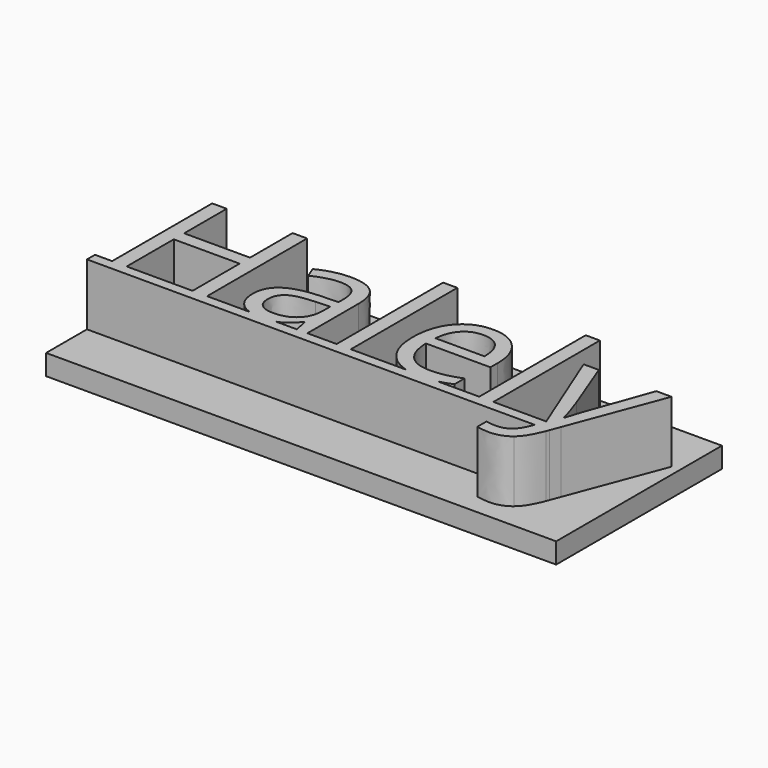
from build123d import *

# Parameters (mm, degrees)
F0_W     = 1.3844430218
F0_H     = 12.9721510883
F1_DEPTH = 8
F2_W     = 49.7238747776
F2_H     = 20.1984127052
F3_DEPTH = 2


with BuildPart() as f1:
    # F0 (on Top) → F1 (new body)
    with BuildSketch(Plane.XY):
        Polygon((1.6752027315, -0.1040332907), (1.6752027315, -12.2919334187), (3.0916559966, -12.2919334187), (3.0916559966, -6.5567648314), (9.5123772941, -6.5567648314), (9.5123772941, -12.2919334187), (10.9288305591, -12.2919334187), (10.9288305591, -0.1040332907), (9.5123772941, -0.1040332907), (9.5123772941, -5.2896927017), (3.0916559966, -5.2896927017), (3.0916559966, -0.1040332907), align=None)
        with BuildLine():
            Line((1.6752027315, -12.2919334187), (0, -12.2919334187))
            Line((0, -12.2919334187), (0, -13.2722109556))
            Line((0, -13.2722109556), (43.6441651164, -13.2722109556))
            Line((43.6441651164, -13.2722109556), (44.0087494665, -12.3426163039))
            Line((44.0087494665, -12.3426163039), (43.9884115608, -12.2919334187))
            Line((43.9884115608, -12.2919334187), (38.8390951771, -12.2919334187))
            Line((38.8390951771, -12.2919334187), (37.4546521554, -12.2919334187))
            Line((37.4546521554, -12.2919334187), (33.4454919166, -12.2919334187))
            add(Edge.make_bspline(
                [(33.4454919166, -12.2919334187), (33.3796802635, -12.3074760692), (33.3146606914, -12.3212761417)],
                knots=[0.9005120931, 0.9005120931, 0.9005120931, 1, 1, 1], degree=2))
            add(Edge.make_bspline(
                [(33.3146606914, -12.3212761417), (32.6611182245, -12.4599871959), (31.7354886897, -12.4599871959)],
                knots=[0, 0, 0, 1, 1, 1], degree=2))
            add(Edge.make_bspline(
                [(31.7354886897, -12.4599871959), (30.9886457429, -12.4599871959), (30.3577707914, -12.2919334187)],
                knots=[0, 0, 0, 0.3688754729, 0.3688754729, 0.3688754729], degree=2))
            Line((30.3577707914, -12.2919334187), (24.941314554, -12.2919334187))
            Line((24.941314554, -12.2919334187), (23.5568715322, -12.2919334187))
            Line((23.5568715322, -12.2919334187), (20.7079598805, -12.2919334187))
            Line((20.7079598805, -12.2919334187), (19.6809645753, -12.2919334187))
            Line((19.6809645753, -12.2919334187), (17.6044525704, -12.2919334187))
            add(Edge.make_bspline(
                [(17.6044525704, -12.2919334187), (17.0357314581, -12.4599871959), (16.2798762271, -12.4599871959)],
                knots=[0.2582329607, 0.2582329607, 0.2582329607, 1, 1, 1], degree=2))
            add(Edge.make_bspline(
                [(16.2798762271, -12.4599871959), (15.6153411474, -12.4599871959), (15.0913833718, -12.2919334187)],
                knots=[0, 0, 0, 0.4894320446, 0.4894320446, 0.4894320446], degree=2))
            Line((15.0913833718, -12.2919334187), (10.9288305591, -12.2919334187))
            Line((10.9288305591, -12.2919334187), (9.5123772941, -12.2919334187))
            Line((9.5123772941, -12.2919334187), (3.0916559966, -12.2919334187))
            Line((3.0916559966, -12.2919334187), (1.6752027315, -12.2919334187))
        make_face()
        with BuildLine():
            add(Edge.make_bspline(
                [(15.0913833718, -12.2919334187), (14.5447987066, -12.1166223119), (14.1511950491, -11.7584293641)],
                knots=[0.4894320446, 0.4894320446, 0.4894320446, 1, 1, 1], degree=2))
            Line((15.0913833718, -12.2919334187), (17.6044525704, -12.2919334187))
            add(Edge.make_bspline(
                [(17.9777528809, -12.1545561246), (17.802442679, -12.2334284944), (17.6044525704, -12.2919334187)],
                knots=[0, 0, 0, 0.2582329607, 0.2582329607, 0.2582329607], degree=2))
            add(Edge.make_bspline(
                [(19.3395219804, -10.9901835254), (18.6566367904, -11.8491250534), (17.9777528809, -12.1545561246)],
                knots=[0, 0, 0, 1, 1, 1], degree=2))
            Line((19.3395219804, -10.9901835254), (19.4062099872, -10.9901835254))
            Line((19.4062099872, -10.9901835254), (19.6809645753, -12.2919334187))
            Line((19.6809645753, -12.2919334187), (20.7079598805, -12.2919334187))
            Line((20.7079598805, -12.2919334187), (20.7079598805, -6.0552710201))
            add(Edge.make_bspline(
                [(19.9197076398, -3.730527102), (20.7079598805, -4.4547588562), (20.7079598805, -6.0552710201)],
                knots=[0, 0, 0, 1, 1, 1], degree=2))
            add(Edge.make_bspline(
                [(17.4989329919, -3.0062953478), (19.1314553991, -3.0062953478), (19.9197076398, -3.730527102)],
                knots=[0, 0, 0, 1, 1, 1], degree=2))
            add(Edge.make_bspline(
                [(15.8837494665, -3.2143619292), (16.6880068289, -3.0062953478), (17.4989329919, -3.0062953478)],
                knots=[0, 0, 0, 1, 1, 1], degree=2))
            add(Edge.make_bspline(
                [(14.404609475, -3.7878787879), (15.0794921041, -3.4224285105), (15.8837494665, -3.2143619292)],
                knots=[0, 0, 0, 1, 1, 1], degree=2))
            Line((14.404609475, -3.7878787879), (14.8314127187, -4.8468843363))
            add(Edge.make_bspline(
                [(17.4135723431, -4.1479940248), (16.2718736662, -4.1479940248), (14.8314127187, -4.8468843363)],
                knots=[0, 0, 0, 1, 1, 1], degree=2))
            add(Edge.make_bspline(
                [(18.8940460948, -4.6601579172), (18.4325650875, -4.1479940248), (17.4135723431, -4.1479940248)],
                knots=[0, 0, 0, 1, 1, 1], degree=2))
            add(Edge.make_bspline(
                [(19.355527102, -6.2473324797), (19.355527102, -5.1723218096), (18.8940460948, -4.6601579172)],
                knots=[0, 0, 0, 1, 1, 1], degree=2))
            Line((19.355527102, -6.2473324797), (19.355527102, -6.8155142979))
            Line((19.355527102, -6.8155142979), (17.8056978233, -6.8661971831))
            add(Edge.make_bspline(
                [(13.3802816901, -9.76579172), (13.3802816901, -6.9995731968), (17.8056978233, -6.8661971831)],
                knots=[0, 0, 0, 1, 1, 1], degree=2))
            add(Edge.make_bspline(
                [(14.1511950491, -11.7584293641), (13.3802816901, -11.0568715322), (13.3802816901, -9.76579172)],
                knots=[0, 0, 0, 1, 1, 1], degree=2))
        make_face()
        with BuildLine():
            add(Edge.make_bspline(
                [(16.5546308152, -11.3156209987), (17.8483781477, -11.3156209987), (18.5859475032, -10.6073943662)],
                knots=[0, 0, 0, 1, 1, 1], degree=2))
            add(Edge.make_bspline(
                [(15.2848911652, -10.9248292787), (15.7383696116, -11.3156209987), (16.5546308152, -11.3156209987)],
                knots=[0, 0, 0, 1, 1, 1], degree=2))
            add(Edge.make_bspline(
                [(14.8314127187, -9.7817968417), (14.8314127187, -10.5340375587), (15.2848911652, -10.9248292787)],
                knots=[0, 0, 0, 1, 1, 1], degree=2))
            add(Edge.make_bspline(
                [(15.5596457533, -8.369344857), (14.8314127187, -8.8241570636), (14.8314127187, -9.7817968417)],
                knots=[0, 0, 0, 1, 1, 1], degree=2))
            add(Edge.make_bspline(
                [(17.939073837, -7.8558472044), (16.2878787879, -7.9145326504), (15.5596457533, -8.369344857)],
                knots=[0, 0, 0, 1, 1, 1], degree=2))
            Line((17.939073837, -7.8558472044), (19.3235168587, -7.7998292787))
            Line((19.3235168587, -7.7998292787), (19.3235168587, -8.6240930431))
            add(Edge.make_bspline(
                [(18.5859475032, -10.6073943662), (19.3235168587, -9.8991677337), (19.3235168587, -8.6240930431)],
                knots=[0, 0, 0, 1, 1, 1], degree=2))
        make_face(mode=Mode.SUBTRACT)
        with Locations((24.2490930431, -5.8058578745)):
            Rectangle(F0_W, F0_H)
        with BuildLine():
            Line((30.3577707914, -12.2919334187), (33.4454919166, -12.2919334187))
            add(Edge.make_bspline(
                [(34.7017712335, -11.8677976953), (34.0411843107, -12.1512495385), (33.4454919166, -12.2919334187)],
                knots=[0, 0, 0, 0.9005120931, 0.9005120931, 0.9005120931], degree=2))
            Line((34.7017712335, -11.8677976953), (34.7017712335, -10.6327358088))
            add(Edge.make_bspline(
                [(31.7861715749, -11.2489329919), (33.261310286, -11.2489329919), (34.7017712335, -10.6327358088)],
                knots=[0, 0, 0, 1, 1, 1], degree=2))
            add(Edge.make_bspline(
                [(29.6148100726, -10.4153329065), (30.3857234315, -11.2489329919), (31.7861715749, -11.2489329919)],
                knots=[0, 0, 0, 1, 1, 1], degree=2))
            add(Edge.make_bspline(
                [(28.8012163892, -7.9732180965), (28.8438967136, -9.5817328212), (29.6148100726, -10.4153329065)],
                knots=[0, 0, 0, 1, 1, 1], degree=2))
            Line((28.8012163892, -7.9732180965), (35.0938967136, -7.9732180965))
            Line((35.0938967136, -7.9732180965), (35.0938967136, -7.0982714469))
            add(Edge.make_bspline(
                [(34.0935766112, -4.1173175416), (35.0938967136, -5.2470123773), (35.0938967136, -7.0982714469)],
                knots=[0, 0, 0, 1, 1, 1], degree=2))
            add(Edge.make_bspline(
                [(31.3780409731, -2.9876227059), (33.0932565087, -2.9876227059), (34.0935766112, -4.1173175416)],
                knots=[0, 0, 0, 1, 1, 1], degree=2))
            add(Edge.make_bspline(
                [(28.4544387537, -4.2880388391), (29.5427870252, -2.9876227059), (31.3780409731, -2.9876227059)],
                knots=[0, 0, 0, 1, 1, 1], degree=2))
            add(Edge.make_bspline(
                [(27.3660904823, -7.7998292787), (27.3660904823, -5.5884549723), (28.4544387537, -4.2880388391)],
                knots=[0, 0, 0, 1, 1, 1], degree=2))
            add(Edge.make_bspline(
                [(28.5384656423, -11.2249253094), (27.3660904823, -9.989863423), (27.3660904823, -7.7998292787)],
                knots=[0, 0, 0, 1, 1, 1], degree=2))
            add(Edge.make_bspline(
                [(30.3577707914, -12.2919334187), (29.2783803609, -12.0044031585), (28.5384656423, -11.2249253094)],
                knots=[0.3688754729, 0.3688754729, 0.3688754729, 1, 1, 1], degree=2))
        make_face()
        with BuildLine():
            add(Edge.make_bspline(
                [(31.3593683312, -4.1479940248), (30.2603499787, -4.1479940248), (29.6054737516, -4.8642232181)],
                knots=[0, 0, 0, 1, 1, 1], degree=2))
            add(Edge.make_bspline(
                [(33.0279022621, -4.844216816), (32.4450490824, -4.1479940248), (31.3593683312, -4.1479940248)],
                knots=[0, 0, 0, 1, 1, 1], degree=2))
            add(Edge.make_bspline(
                [(33.6107554417, -6.8475245412), (33.6107554417, -5.5404396073), (33.0279022621, -4.844216816)],
                knots=[0, 0, 0, 1, 1, 1], degree=2))
            Line((33.6107554417, -6.8475245412), (28.8332266325, -6.8475245412))
            add(Edge.make_bspline(
                [(29.6054737516, -4.8642232181), (28.9505975245, -5.5804524114), (28.8332266325, -6.8475245412)],
                knots=[0, 0, 0, 1, 1, 1], degree=2))
        make_face(mode=Mode.SUBTRACT)
        with Locations((38.1468736662, -5.8058578745)):
            Rectangle(F0_W, F0_H)
        with BuildLine():
            Line((43.9884115608, -12.2919334187), (45.444627751, -12.2919334187))
            Line((45.444627751, -12.2919334187), (48.8929790866, -3.1556764831))
            Line((48.8929790866, -3.1556764831), (47.4098378148, -3.1556764831))
            add(Edge.make_bspline(
                [(45.1451131029, -9.4857020913), (45.4918907384, -8.4560392659), (47.4098378148, -3.1556764831)],
                knots=[0, 0, 0, 1, 1, 1], degree=2))
            add(Edge.make_bspline(
                [(44.6916346564, -10.9421681605), (44.7983354673, -10.5153649168), (45.1451131029, -9.4857020913)],
                knots=[0, 0, 0, 1, 1, 1], degree=2))
            Line((44.6916346564, -10.9421681605), (44.6249466496, -10.9421681605))
            add(Edge.make_bspline(
                [(43.808685446, -8.3653435766), (44.4648954332, -10.1499146394), (44.6249466496, -10.9421681605)],
                knots=[0, 0, 0, 1, 1, 1], degree=2))
            Line((43.808685446, -8.3653435766), (41.8080452411, -3.1556764831))
            Line((41.8080452411, -3.1556764831), (40.322236449, -3.1556764831))
            Line((40.322236449, -3.1556764831), (43.9884115608, -12.2919334187))
        make_face()
        Polygon((44.0087494665, -12.3426163039), (43.6441651164, -13.2722109556), (45.0746358191, -13.2722109556), (45.444627751, -12.2919334187), (43.9884115608, -12.2919334187), align=None)
        with BuildLine():
            Line((45.0746358191, -13.2722109556), (43.6441651164, -13.2722109556))
            Line((43.6441651164, -13.2722109556), (43.4992530943, -13.6416986769))
            add(Edge.make_bspline(
                [(41.4639351259, -15.2422108408), (42.891058472, -15.2422108408), (43.4992530943, -13.6416986769)],
                knots=[0, 0, 0, 1, 1, 1], degree=2))
            add(Edge.make_bspline(
                [(40.439607341, -15.1435125907), (40.898420828, -15.2422108408), (41.4639351259, -15.2422108408)],
                knots=[0, 0, 0, 1, 1, 1], degree=2))
            Line((40.439607341, -15.1435125907), (40.439607341, -16.2505335041))
            add(Edge.make_bspline(
                [(41.6906743491, -16.3945795988), (41.0558045241, -16.3945795988), (40.439607341, -16.2505335041)],
                knots=[0, 0, 0, 1, 1, 1], degree=2))
            add(Edge.make_bspline(
                [(43.603286385, -15.7477059326), (42.8243704652, -16.3945795988), (41.6906743491, -16.3945795988)],
                knots=[0, 0, 0, 1, 1, 1], degree=2))
            add(Edge.make_bspline(
                [(44.9663892446, -13.5590055484), (44.3822023047, -15.1008322663), (43.603286385, -15.7477059326)],
                knots=[0, 0, 0, 1, 1, 1], degree=2))
            Line((44.9663892446, -13.5590055484), (45.0746358191, -13.2722109556))
        make_face()
        with BuildLine():
            add(Edge.make_bspline(
                [(33.4454919166, -12.2919334187), (33.3796802635, -12.3074760692), (33.3146606914, -12.3212761417)],
                knots=[0.9005120931, 0.9005120931, 0.9005120931, 1, 1, 1], degree=2))
            Line((33.4454919166, -12.2919334187), (30.3577707914, -12.2919334187))
            add(Edge.make_bspline(
                [(31.7354886897, -12.4599871959), (30.9886457429, -12.4599871959), (30.3577707914, -12.2919334187)],
                knots=[0, 0, 0, 0.3688754729, 0.3688754729, 0.3688754729], degree=2))
            add(Edge.make_bspline(
                [(33.3146606914, -12.3212761417), (32.6611182245, -12.4599871959), (31.7354886897, -12.4599871959)],
                knots=[0, 0, 0, 1, 1, 1], degree=2))
        make_face()
        with BuildLine():
            Line((17.6044525704, -12.2919334187), (15.0913833718, -12.2919334187))
            add(Edge.make_bspline(
                [(16.2798762271, -12.4599871959), (15.6153411474, -12.4599871959), (15.0913833718, -12.2919334187)],
                knots=[0, 0, 0, 0.4894320446, 0.4894320446, 0.4894320446], degree=2))
            add(Edge.make_bspline(
                [(17.6044525704, -12.2919334187), (17.0357314581, -12.4599871959), (16.2798762271, -12.4599871959)],
                knots=[0.2582329607, 0.2582329607, 0.2582329607, 1, 1, 1], degree=2))
        make_face()
    extrude(amount=F1_DEPTH)

    # F2 (on Top) → F3 (join)
    with BuildSketch(Plane.XY):
        with Locations((24.8619373888, -8.152311435)):
            Rectangle(F2_W, F2_H)
    extrude(amount=F3_DEPTH)


solid = f1.part
